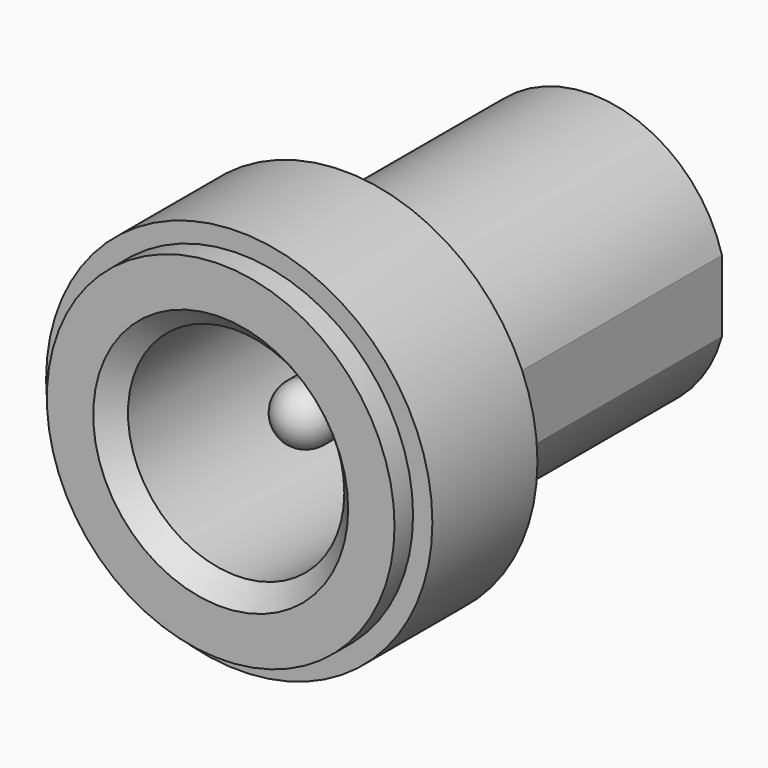
from build123d import *

# Parameters (mm, degrees)
F0_R      = 5
F1_DEPTH  = 3.4
F2_R      = 3.5
F3_DEPTH  = 8
F5_DEPTH  = 8
F6_R      = 3
F7_DEPTH  = 10.4
F8_R      = 3
F8_R_2    = 2.8
F9_DEPTH  = 10.4
F10_R     = 4.5
F10_R_2   = 3
F10_R_3   = 2.8
F11_DEPTH = 0.6
F12_SIZE  = 0.5
F13_R     = 0.75
F14_DEPTH = 9
F15_R     = 0.75


with BuildPart() as f1:
    # F0 (on Front) → F1 (new body)
    with BuildSketch(Plane.XZ):
        Circle(F0_R)
    extrude(amount=F1_DEPTH)

    # F2 (on face) → F3 (join)
    with BuildSketch(Plane(origin=(0, 0, 0), x_dir=(-1, 0, 0), z_dir=(0, 1, 0))):
        Circle(F2_R)
    extrude(amount=F3_DEPTH)

    # F4 (on face) → F5 (cut, through all)
    with BuildSketch(Plane(origin=(0, 8, 0), x_dir=(-1, 0, 0), z_dir=(0, 1, 0))):
        with BuildLine():
            Line((3.375, 0.9270248109), (3.375, -0.9270248109))
            ThreePointArc((3.375, -0.9270248109), (3.4686092314, -0.4677071733), (3.5, 0))
            ThreePointArc((3.5, 0), (3.4686092314, 0.4677071733), (3.375, 0.9270248109))
        make_face()
        with BuildLine():
            ThreePointArc((-3.375, 0.9270248109), (-3.5, 0), (-3.375, -0.9270248109))
            Line((-3.375, -0.9270248109), (-3.375, 0.9270248109))
        make_face()
    extrude(amount=-F5_DEPTH, mode=Mode.SUBTRACT)

    # F6 (on face) → F7 (cut, through all)
    with BuildSketch(Plane.XZ.offset(3.4)):
        Circle(F6_R)
    extrude(amount=-F7_DEPTH, mode=Mode.SUBTRACT)


with BuildPart() as f9:
    # F8 (on face) → F9 (new body, through all)
    with BuildSketch(Plane.XZ.offset(3.4)):
        Circle(F8_R)
        Circle(F8_R_2, mode=Mode.SUBTRACT)
    extrude(amount=-F9_DEPTH)

    # F10 (on face) → F11 (join)
    with BuildSketch(Plane.XZ.offset(3.4)):
        Circle(F10_R)
        Circle(F10_R_2, mode=Mode.SUBTRACT)
        Circle(F10_R_2)
        Circle(F10_R_3, mode=Mode.SUBTRACT)
    extrude(amount=F11_DEPTH)

    # F12
    f12_edges = [f9.edges().sort_by_distance(p)[0] for p in [
        (-2.8, -4, 0),
    ]]
    chamfer(f12_edges, length=F12_SIZE)


with BuildPart() as f14:
    # F13 (on face) → F14 (new body)
    with BuildSketch(Plane.XZ.offset(-7)):
        Circle(F13_R)
    extrude(amount=F14_DEPTH)

    # F15
    f15_edges = [f14.edges().sort_by_distance(p)[0] for p in [
        (-0.75, -2, 0),
    ]]
    fillet(f15_edges, radius=F15_R)


solid = Compound([f1.part, f9.part, f14.part])
